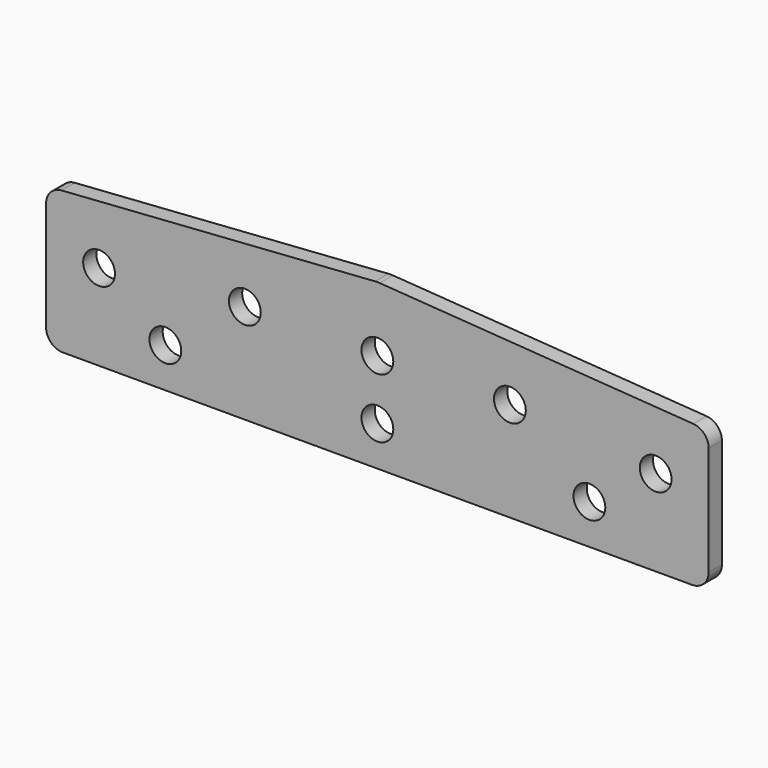
from build123d import *

# Parameters (mm, degrees)
F0_R     = 3.048
F1_DEPTH = 3.175


with BuildPart() as f1:
    # F0 (on Front) → F1 (new body)
    with BuildSketch(Plane.XZ):
        with BuildLine():
            ThreePointArc((-63.5, 3.175), (-62.570064, 0.929936), (-60.325, 0))
            Line((-60.325, 0), (60.325, 0))
            ThreePointArc((60.325, 0), (62.570064, 0.929936), (63.5, 3.175))
            Line((63.5, 3.175), (63.5, 24.090265))
            ThreePointArc((63.5, 24.090265), (62.647048, 26.255609), (60.546477, 27.25753))
            Line((60.546477, 27.25753), (0.442954, 31.460378))
            ThreePointArc((0.442954, 31.460378), (0, 31.475847), (-0.442954, 31.460378))
            Line((-0.442954, 31.460378), (-60.546477, 27.25753))
            ThreePointArc((-60.546477, 27.25753), (-62.647048, 26.255609), (-63.5, 24.090265))
            Line((-63.5, 24.090265), (-63.5, 3.175))
        make_face()
        with Locations((-40.64, 7.62)):
            Circle(F0_R, mode=Mode.SUBTRACT)
        with Locations((0, 7.62)):
            Circle(F0_R, mode=Mode.SUBTRACT)
        with Locations((40.64, 7.62)):
            Circle(F0_R, mode=Mode.SUBTRACT)
        with Locations((-53.34, 16.51)):
            Circle(F0_R, mode=Mode.SUBTRACT)
        with Locations((-25.4, 19.05)):
            Circle(F0_R, mode=Mode.SUBTRACT)
        with Locations((0, 19.05)):
            Circle(F0_R, mode=Mode.SUBTRACT)
        with Locations((25.4, 19.05)):
            Circle(F0_R, mode=Mode.SUBTRACT)
        with Locations((53.34, 16.51)):
            Circle(F0_R, mode=Mode.SUBTRACT)
    extrude(amount=F1_DEPTH)


solid = f1.part
